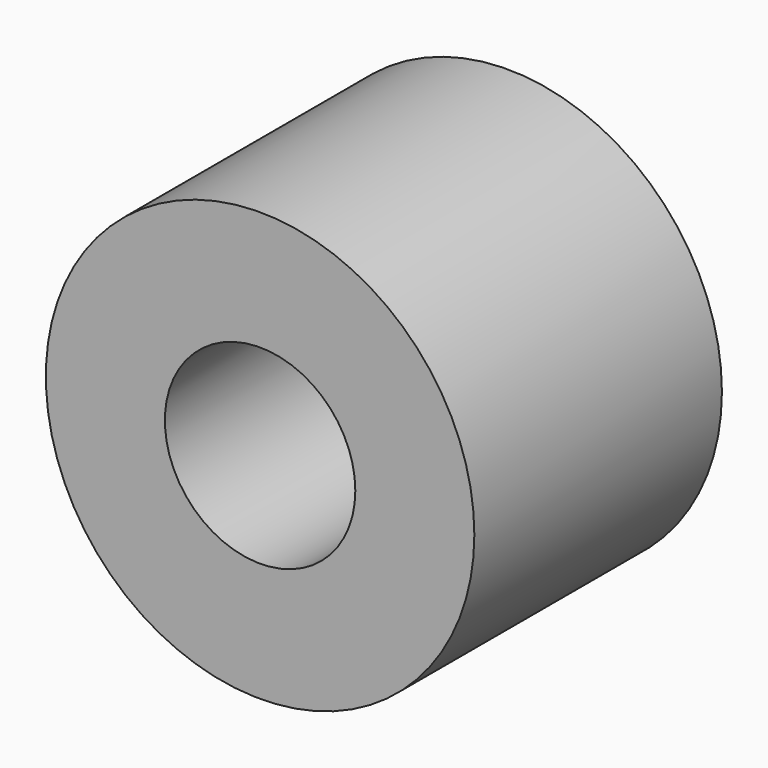
from build123d import *

# Parameters (mm, degrees)
CYLINDER389_R          = 0.4
CYLINDER389_DEPTH      = 1.3
CYLINDER390_R          = 0.9
CYLINDER390_DEPTH      = 1.3
CUT191_PLACEMENT_ANGLE = 90


with BuildPart() as cylinder389:
    # Cylinder389 → Cylinder389 (new body)
    with BuildSketch(Plane.XY):
        Circle(CYLINDER389_R)
    extrude(amount=CYLINDER389_DEPTH)


with BuildPart() as contact010:
    # Cylinder390 → Cylinder390 (new body)
    with BuildSketch(Plane.XY):
        Circle(CYLINDER390_R)
    extrude(amount=CYLINDER390_DEPTH)

    # Cut191: cut Cylinder389
    add(cylinder389.part, mode=Mode.SUBTRACT)


with BuildPart() as contact010_1:
    # Cut191 placement: moved
    add(contact010.part.moved(Location((-7, 1.3, -17))).rotate(Axis((-7, 1.3, -17), (1, 0, 0)), CUT191_PLACEMENT_ANGLE))


solid = contact010_1.part
